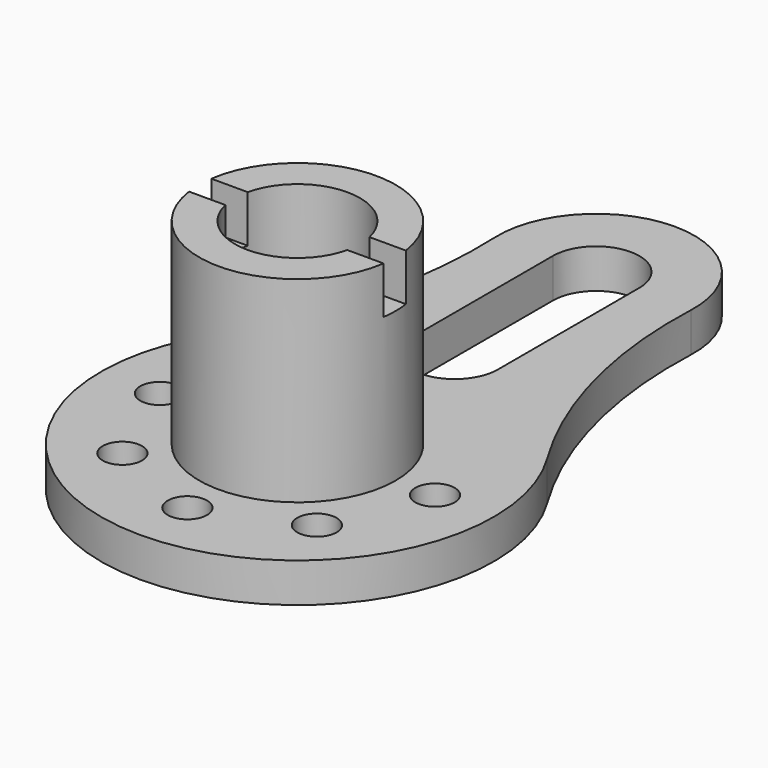
from build123d import *

# Parameters (mm, degrees)
F0_R     = 15.9
F1_DEPTH = 10
F3_DEPTH = 10
F4_R     = 5
F5_DEPTH = 10
F6_R     = 25
F6_R_2   = 15.9
F7_DEPTH = 50
F8_W     = 7.1
F8_H     = 12
F9_DEPTH = 25


with BuildPart() as f1:
    # F0 (on Top) → F1 (new body)
    with BuildSketch(Plane.XY):
        with BuildLine():
            ThreePointArc((42.6098881125, -68.8390092879), (28.7369466924, -36.2564924246), (24.9782102729, -1.0435571688))
            ThreePointArc((24.9782102729, -1.0435571688), (0, 25), (-24.9782102729, -1.0435571688))
            ThreePointArc((-24.9782102729, -1.0435571688), (-28.7369466924, -36.2564924246), (-42.6098881125, -68.8390092879))
            ThreePointArc((-42.6098881125, -68.8390092879), (0, -145), (42.6098881125, -68.8390092879))
        make_face()
        with Locations((0, -95)):
            Circle(F0_R, mode=Mode.SUBTRACT)
    extrude(amount=-F1_DEPTH)

    # F2 (on Top) → F3 (cut, through all)
    with BuildSketch(Plane.XY):
        with BuildLine():
            Line((-11, 0), (-11, -45))
            ThreePointArc((-11, -45), (0, -56), (11, -45))
            Line((11, -45), (11, 0))
            ThreePointArc((11, 0), (0, 11), (-11, 0))
        make_face()
    extrude(amount=-F3_DEPTH, mode=Mode.SUBTRACT)

    # F4 (on face) → F5 (cut, through all)
    with BuildSketch(Plane.XY):
        with Locations((-35, -95)):
            Circle(F4_R)
        with Locations((-24.7487373415, -119.7487373415)):
            Circle(F4_R)
        with Locations((0, -130)):
            Circle(F4_R)
        with Locations((24.7487373415, -119.7487373415)):
            Circle(F4_R)
        with Locations((35, -95)):
            Circle(F4_R)
    extrude(amount=-F5_DEPTH, mode=Mode.SUBTRACT)

    # F6 (on face) → F7 (join)
    with BuildSketch(Plane.XY):
        with Locations((0, -95)):
            Circle(F6_R)
        with Locations((0, -95)):
            Circle(F6_R_2, mode=Mode.SUBTRACT)
    extrude(amount=F7_DEPTH)

    # F8 (on Right) → F9 (cut, symmetric)
    with BuildSketch(Plane.YZ):
        with Locations((-95, 44)):
            Rectangle(F8_W, F8_H)
    extrude(amount=F9_DEPTH, both=True, mode=Mode.SUBTRACT)


solid = f1.part
